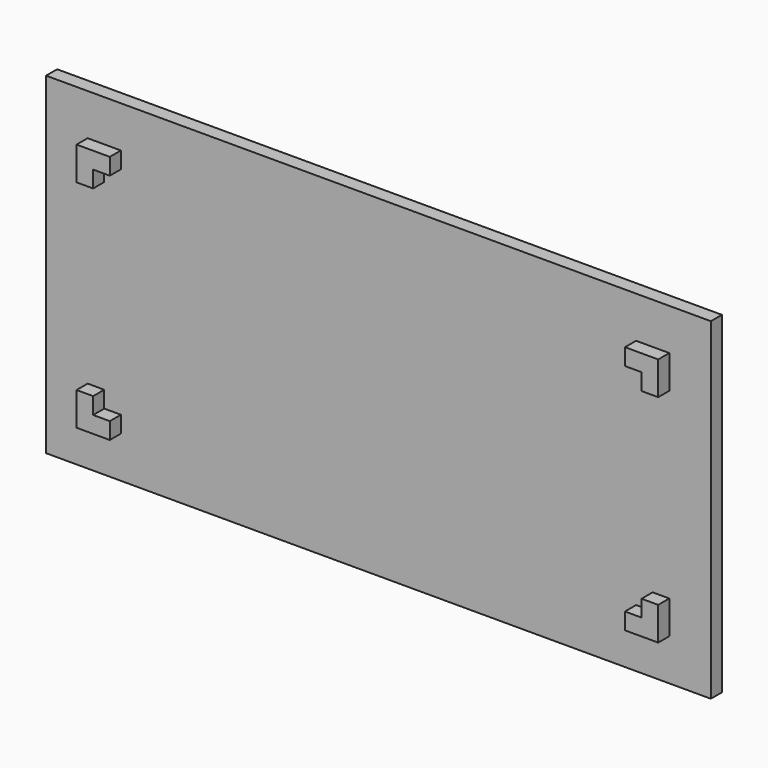
from build123d import *

# Parameters (mm, degrees)
F0_W     = 50.8
F0_H     = 25.4
F1_DEPTH = 1.058333
F3_DEPTH = 2.116667


with BuildPart() as f1:
    # F0 (on Front) → F1 (new body)
    with BuildSketch(Plane.XZ):
        Rectangle(F0_W, F0_H)
    extrude(amount=F1_DEPTH)

    # F2 (on Front) → F3 (join)
    with BuildSketch(Plane.XZ):
        Polygon((22.225, 6.985), (22.225, 9.525), (19.685, 9.525), (19.685, 8.255), (20.955, 8.255), (20.955, 6.985), align=None)
        Polygon((19.685, -9.525), (22.225, -9.525), (22.225, -6.985), (20.955, -6.985), (20.955, -8.255), (19.685, -8.255), align=None)
        Polygon((-19.685, 9.525), (-22.225, 9.525), (-22.225, 6.985), (-20.955, 6.985), (-20.955, 8.255), (-19.685, 8.255), align=None)
        Polygon((-19.685, -9.525), (-19.685, -8.255), (-20.955, -8.255), (-20.955, -6.985), (-22.225, -6.985), (-22.225, -9.525), align=None)
    extrude(amount=F3_DEPTH)


solid = f1.part
